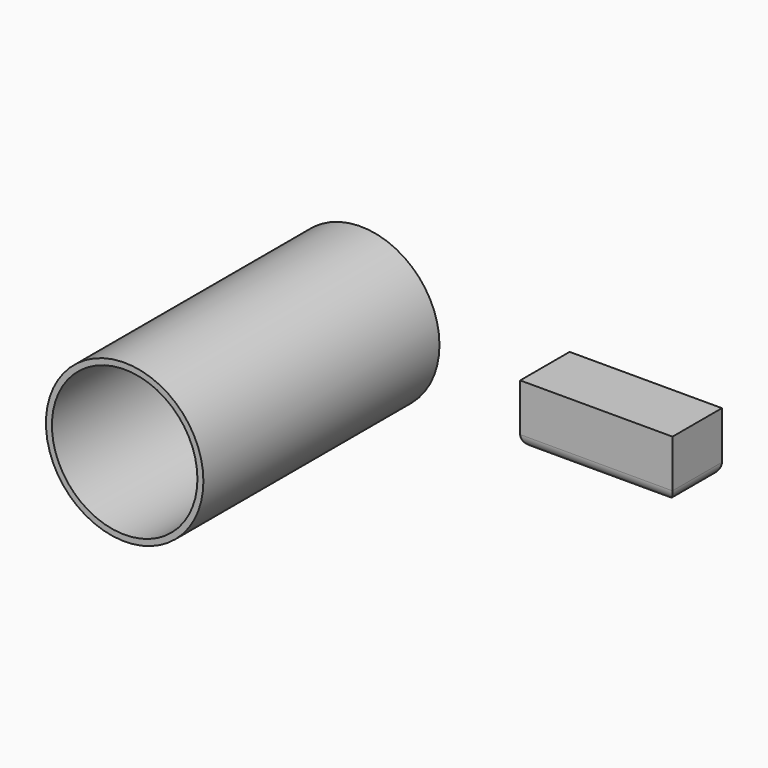
from build123d import *

# Parameters (mm, degrees)
F0_R     = 33.546516
F1_DEPTH = 125.73
F2_T     = -2.54
F3_W     = 64.896105
F3_H     = 26.317318
F4_DEPTH = 25.4
F5_R     = 5.08


with BuildPart() as f1:
    # F0 (on Front) → F1 (new body)
    with BuildSketch(Plane.XZ):
        with Locations((-48.37586, 37.290942)):
            Circle(F0_R)
    extrude(amount=F1_DEPTH)

    # F2
    f2_openings = [f1.faces().sort_by_distance(p)[0] for p in [
        (-48.37586, -125.73, 37.290942),
    ]]
    offset(amount=F2_T, openings=f2_openings)


with BuildPart() as f4:
    # F3 (on Top) → F4 (new body)
    with BuildSketch(Plane.XY):
        with Locations((40.282348, 27.826776)):
            Rectangle(F3_W, F3_H)
    extrude(amount=F4_DEPTH)

    # F5
    f5_edges = [f4.edges().sort_by_distance(p)[0] for p in [
        (40.282347, 40.985435, 0),
        (7.834295, 27.826776, 0),
        (40.282347, 14.668117, 0),
        (72.7304, 27.826776, 0),
    ]]
    fillet(f5_edges, radius=F5_R)


solid = Compound([f1.part, f4.part])
